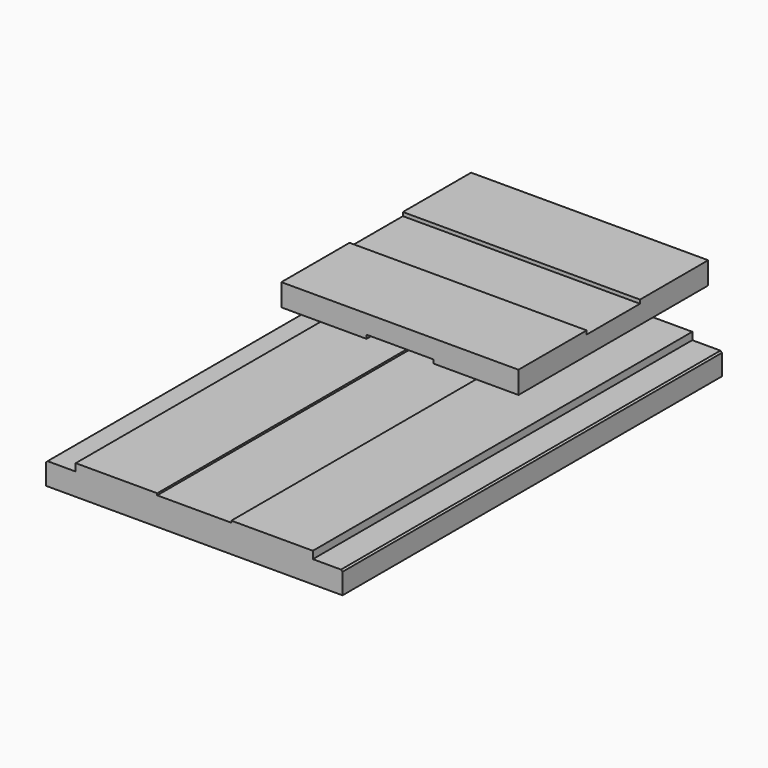
from build123d import *

# Parameters (mm, degrees)
F1_DEPTH = 203.2
F3_DEPTH = 101.6
F4_W     = 28.575
F4_H     = 1.5748
F5_DEPTH = 121.122969
F6_SIZE  = 0.635


with BuildPart() as f1:
    # F0 (on Front) → F1 (new body)
    with BuildSketch(Plane.XZ):
        Polygon((-63.5, -6.35), (63.5, -6.35), (63.5, 3.175), (50.8, 3.175), (50.8, 6.35), (15.875, 6.35), (15.875, 5.5626), (-15.875, 5.5626), (-15.875, 6.35), (-50.8, 6.35), (-50.8, 3.175), (-63.5, 3.175), align=None)
    extrude(amount=F1_DEPTH)

    # F6
    f6_edges = [f1.edges().sort_by_distance(p)[0] for p in [
        (-63.5, -101.6, 3.175),
        (63.5, -101.6, 3.175),
    ]]
    chamfer(f6_edges, length=F6_SIZE)


with BuildPart() as f3:
    # F2 (on Front) → F3 (new body)
    with BuildSketch(Plane.XZ):
        Polygon((57.621969, 35.545684), (-43.978031, 35.545684), (-43.978031, 26.020684), (-7.465531, 26.020684), (-7.465531, 27.595484), (21.109469, 27.595484), (21.109469, 26.020684), (57.621969, 26.020684), align=None)
    extrude(amount=F3_DEPTH)

    # F4 (on face) → F5 (cut, through all)
    with BuildSketch(Plane.YZ.offset(57.621969)):
        with Locations((-50.8, 34.758284)):
            Rectangle(F4_W, F4_H)
    extrude(amount=-F5_DEPTH, mode=Mode.SUBTRACT)


solid = Compound([f1.part, f3.part])
